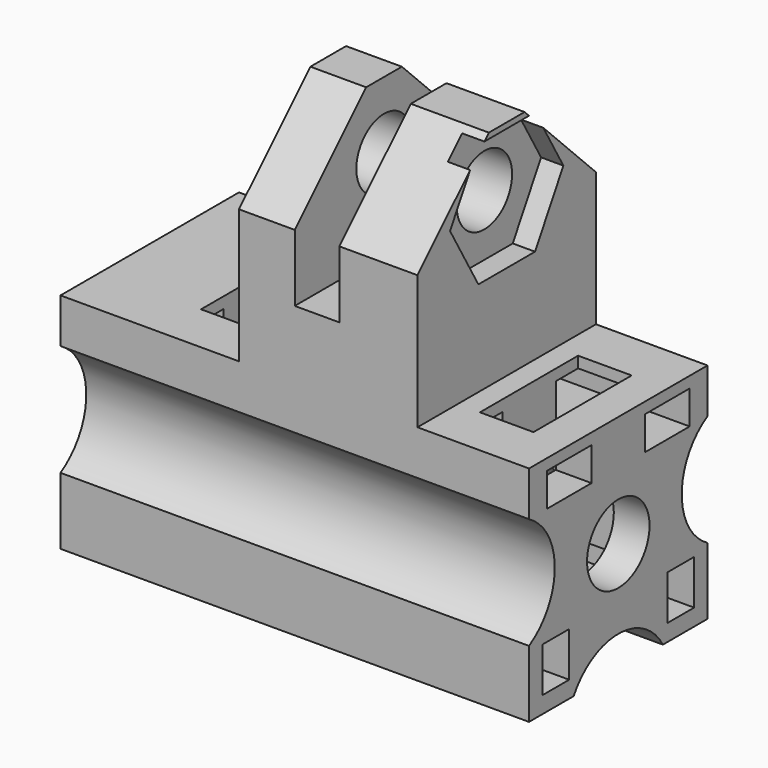
from build123d import *

# Parameters (mm, degrees)
SKETCH_R        = 1.75
PAD_DEPTH       = 21
SKETCH002_W     = 5.5
SKETCH002_H     = 2.4
POCKET_DEPTH    = 8
SKETCH003_R     = 3.1
POCKET001_DEPTH = 3
SKETCH007_W     = 1.5
SKETCH007_H     = 2
SKETCH007_W_2   = 2.5
SKETCH007_H_2   = 1.5
POCKET002_DEPTH = 21.001
SKETCH008_W     = 10
SKETCH008_H     = 8
PAD001_DEPTH    = 10
CHAMFER_SIZE    = 4
SKETCH009_R     = 1.55
POCKET003_DEPTH = 13.001
POCKET004_DEPTH = 1
SKETCH011_W     = 10
SKETCH011_H     = 2
POCKET005_DEPTH = 7


with BuildPart() as part:
    # Sketch → Pad (new body)
    with BuildSketch(Plane.YZ):
        with BuildLine():
            Line((-5, 8), (-5, 10))
            Line((-5, 10), (5, 10))
            Line((5, 10), (5, 8))
            ThreePointArc((5, 8), (3.556624, 5.5), (5, 3))
            Line((5, 3), (5, 0))
            Line((5, 0), (2.5, 0))
            ThreePointArc((2.5, 0), (0, 1.443376), (-2.5, 0))
            Line((-2.5, 0), (-5, 0))
            Line((-5, 0), (-5, 3))
            ThreePointArc((-5, 3), (-3.556624, 5.5), (-5, 8))
        make_face()
        with Locations((0, 5)):
            Circle(SKETCH_R, mode=Mode.SUBTRACT)
    extrude(amount=PAD_DEPTH)

    # Sketch002 → Pocket (cut)
    with BuildSketch(Plane(origin=(0, 0, 10), x_dir=(0, -1, 0), z_dir=(0, 0, 1))):
        with Locations((0, 5.7)):
            Rectangle(SKETCH002_W, SKETCH002_H)
        with Locations((0, 18.2)):
            Rectangle(SKETCH002_W, SKETCH002_H)
    extrude(amount=-POCKET_DEPTH, mode=Mode.SUBTRACT)

    # Sketch003 (on Face4 of Pocket) → Pocket001 (cut)
    with BuildSketch(Plane(origin=(0, 0, 0), x_dir=(0, 1, 0), z_dir=(-1, 0, 0))):
        with Locations((0, -5)):
            Circle(SKETCH003_R)
    extrude(amount=-POCKET001_DEPTH, mode=Mode.SUBTRACT)

    # Sketch007 (on Face4 of Pocket001) → Pocket002 (cut, through all)
    with BuildSketch(Plane(origin=(0, 0, 0), x_dir=(0, 1, 0), z_dir=(-1, 0, 0))):
        with Locations((-3.5, -1.75)):
            Rectangle(SKETCH007_W, SKETCH007_H)
        with Locations((3.5, -1.75)):
            Rectangle(SKETCH007_W, SKETCH007_H)
        with Locations((-2.75, -8.75)):
            Rectangle(SKETCH007_W_2, SKETCH007_H_2)
        with Locations((2.75, -8.75)):
            Rectangle(SKETCH007_W_2, SKETCH007_H_2)
    extrude(amount=-POCKET002_DEPTH, mode=Mode.SUBTRACT)

    # Sketch008 (on Face3 of Pocket002) → Pad001 (join)
    with BuildSketch(Plane(origin=(0, 0, 10), x_dir=(0, -1, 0), z_dir=(0, 0, 1))):
        with Locations((0, 12)):
            Rectangle(SKETCH008_W, SKETCH008_H)
    extrude(amount=PAD001_DEPTH)

    # Chamfer
    chamfer_edges = [part.edges().sort_by_distance(p)[0] for p in [
        (12, -5, 20),
        (12, 5, 20),
    ]]
    chamfer(chamfer_edges, length=CHAMFER_SIZE)

    # Sketch009 (on Face5 of Chamfer) → Pocket003 (cut, through all)
    with BuildSketch(Plane(origin=(8, 0, 0), x_dir=(0, 1, 0), z_dir=(-1, 0, 0))):
        with Locations((0, -17)):
            Circle(SKETCH009_R)
    extrude(amount=-POCKET003_DEPTH, mode=Mode.SUBTRACT)

    # Sketch010 (on Face2 of Pocket003) → Pocket004 (cut)
    with BuildSketch(Plane.YZ.offset(16)):
        Polygon((3.175426, 17), (1.587713, 19.75), (-1.587713, 19.75), (-3.175426, 17), (-1.587713, 14.25), (1.587713, 14.25), align=None)
    extrude(amount=-POCKET004_DEPTH, mode=Mode.SUBTRACT)

    # Sketch011 (on Face17 of Pocket004) → Pocket005 (cut)
    with BuildSketch(Plane(origin=(0, 0, 20), x_dir=(0, -1, 0), z_dir=(0, 0, 1))):
        with Locations((0, 11.5)):
            Rectangle(SKETCH011_W, SKETCH011_H)
    extrude(amount=-POCKET005_DEPTH, mode=Mode.SUBTRACT)


solid = part.part
